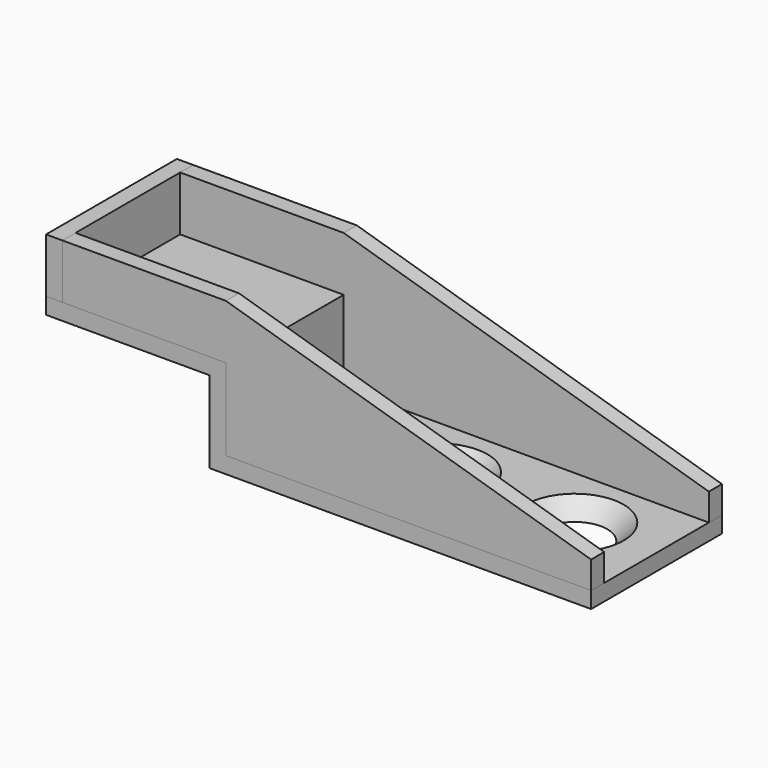
from build123d import *

# Parameters (mm, degrees)
F1_DEPTH       = 15
F3_D           = 8.8
F3_CSINK_D     = 17.92
F3_CSINK_ANGLE = 90
F4_W           = 3
F4_H           = 30
F5_DEPTH       = 10
F8_DEPTH       = 3
F9_DEPTH       = 3


with BuildPart() as f1:
    # F0 (on Front) → F1 (new body, symmetric)
    with BuildSketch(Plane.XZ):
        Polygon((0, 3), (0, 0), (70, 0), (70, 3), (3, 3), (3, 18), (-30, 18), (-30, 15), (0, 15), align=None)
    extrude(amount=F1_DEPTH, both=True)

    # F3 (through all)
    with Locations(Plane.XY.offset(3)):
        with Locations((55, 0), (30, 0)):
            CounterSinkHole(F3_D / 2, F3_CSINK_D / 2, counter_sink_angle=F3_CSINK_ANGLE)


with BuildPart() as f5:
    # F4 (on face) → F5 (new body)
    with BuildSketch(Plane.XY.offset(18)):
        with Locations((-28.5, 0)):
            Rectangle(F4_W, F4_H)
    extrude(amount=F5_DEPTH)


with BuildPart() as f8:
    # F6 (on face) → F8 (new body)
    with BuildSketch(Plane.XZ.offset(15)):
        Polygon((3, 3), (70, 3), (70, 8), (3, 28), (-27, 28), (-27, 18), (3, 18), align=None)
    extrude(amount=-F8_DEPTH)


with BuildPart() as f9:
    # F7 (on face) → F9 (new body)
    with BuildSketch(Plane(origin=(0, 15, 0), x_dir=(-1, 0, 0), z_dir=(0, 1, 0))):
        Polygon((-3, 18), (27, 18), (27, 28), (-3, 28), (-70, 8), (-70, 3), (-3, 3), align=None)
    extrude(amount=-F9_DEPTH)


solid = Compound([f1.part, f5.part, f8.part, f9.part])
